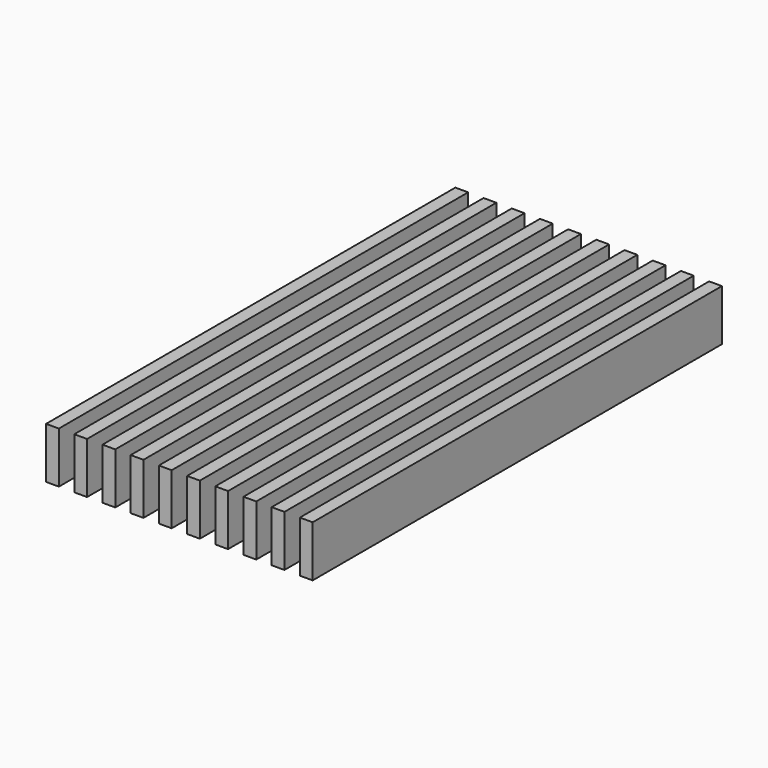
from build123d import *

# Parameters (mm, degrees)
F0_W     = 3.175
F0_H     = 12.7
F1_DEPTH = 127


with BuildPart() as f1:
    # F0 (on Front) → F1 (new body)
    with BuildSketch(Plane.XZ):
        with Locations((1.5875, 6.35)):
            Rectangle(F0_W, F0_H)
        with Locations((8.5875, 6.35)):
            Rectangle(F0_W, F0_H)
        with Locations((15.5875, 6.35)):
            Rectangle(F0_W, F0_H)
        with Locations((22.5875, 6.35)):
            Rectangle(F0_W, F0_H)
        with Locations((29.5875, 6.35)):
            Rectangle(F0_W, F0_H)
        with Locations((36.5875, 6.35)):
            Rectangle(F0_W, F0_H)
        with Locations((43.5875, 6.35)):
            Rectangle(F0_W, F0_H)
        with Locations((50.5875, 6.35)):
            Rectangle(F0_W, F0_H)
        with Locations((57.5875, 6.35)):
            Rectangle(F0_W, F0_H)
        with Locations((64.5875, 6.35)):
            Rectangle(F0_W, F0_H)
    extrude(amount=F1_DEPTH)


solid = f1.part
